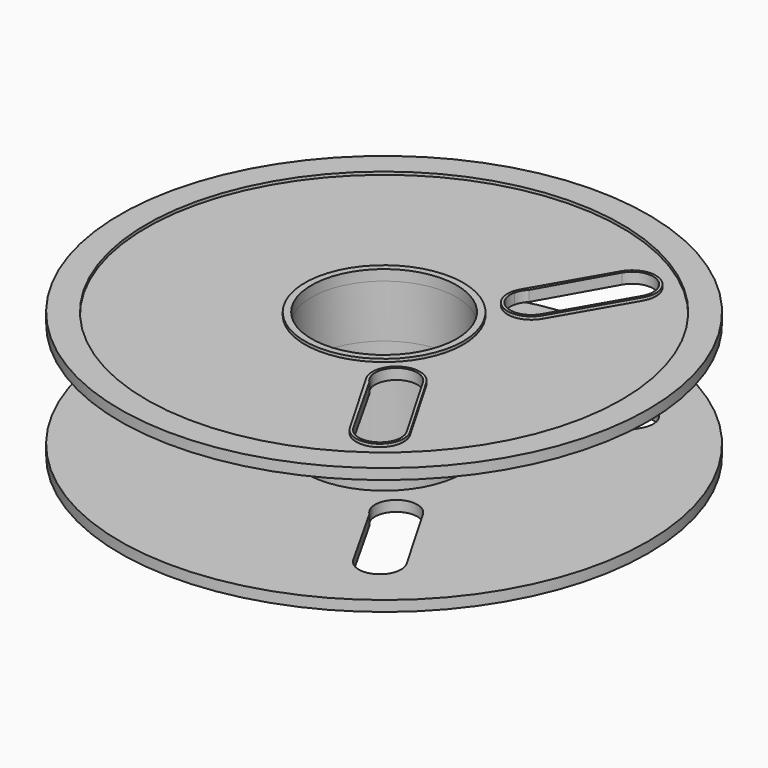
from build123d import *

# Parameters (mm, degrees)
F0_R     = 3
F0_R_2   = 2.75
F1_DEPTH = 0.4
F0_R_3   = 10
F0_R_4   = 9
F2_DEPTH = 0.29
F3_DEPTH = 2


with BuildPart() as f1:
    # F0 (on Top) → F1 (new body)
    with BuildSketch(Plane.XY):
        Circle(F0_R)
        Circle(F0_R_2, mode=Mode.SUBTRACT)
    extrude(amount=F1_DEPTH)


with BuildPart() as f1b:
    # F0 (on Top) → F1, piece 2 (new body)
    with BuildSketch(Plane.XY):
        with BuildLine():
            Line((5.3993566375, -5.5212812921), (3.7993566375, -2.75))
            ThreePointArc((3.7993566375, -2.75), (2.5699337741, -2.4205771366), (2.2405109107, -3.65))
            Line((2.2405109107, -3.65), (3.8405109107, -6.4212812921))
            ThreePointArc((3.8405109107, -6.4212812921), (5.0699337741, -6.7507041555), (5.3993566375, -5.5212812921))
        make_face()
        with BuildLine():
            ThreePointArc((2.2405109107, -3.3802775638), (2.7265815749, -2.4557255296), (3.7127540971, -2.8))
            Line((3.7127540971, -2.8), (5.3127540971, -5.5712812921))
            ThreePointArc((5.3127540971, -5.5712812921), (5.0164074709, -6.6661255968), (3.9230834357, -6.3642184447))
            Line((3.9230834357, -6.3642184447), (2.4623211329, -3.7736446133))
            ThreePointArc((2.4623211329, -3.7736446133), (2.3230834357, -3.5929371526), (2.2405109107, -3.3802775638))
        make_face(mode=Mode.SUBTRACT)
    extrude(amount=F1_DEPTH)


with BuildPart() as f1c:
    # F0 (on Top) → F1, piece 3 (new body)
    with BuildSketch(Plane.XY):
        with BuildLine():
            Line((3.7993566375, 2.75), (5.3993566375, 5.5212812921))
            ThreePointArc((5.3993566375, 5.5212812921), (5.0699337741, 6.7507041555), (3.8405109107, 6.4212812921))
            Line((3.8405109107, 6.4212812921), (2.2405109107, 3.65))
            ThreePointArc((2.2405109107, 3.65), (2.5699337741, 2.4205771366), (3.7993566375, 2.75))
        make_face()
        with BuildLine():
            ThreePointArc((2.2405109107, 3.3802775638), (2.3230834357, 3.5929371526), (2.4623211329, 3.7736446133))
            Line((2.4623211329, 3.7736446133), (3.9230834357, 6.3642184447))
            ThreePointArc((3.9230834357, 6.3642184447), (5.0164074709, 6.6661255968), (5.3127540971, 5.5712812921))
            Line((5.3127540971, 5.5712812921), (3.7127540971, 2.8))
            ThreePointArc((3.7127540971, 2.8), (2.7265815749, 2.4557255296), (2.2405109107, 3.3802775638))
        make_face(mode=Mode.SUBTRACT)
    extrude(amount=F1_DEPTH)


with BuildPart() as f1d:
    # F0 (on Top) → F1, piece 4 (new body)
    with BuildSketch(Plane.XY):
        Circle(F0_R_3)
        Circle(F0_R_4, mode=Mode.SUBTRACT)
    extrude(amount=F1_DEPTH)


with BuildPart() as f2:
    # F0 (on Top) → F2 (new body)
    with BuildSketch(Plane.XY):
        Circle(F0_R_4)
        with BuildLine():
            ThreePointArc((2.2405109107, -3.65), (2.5699337741, -2.4205771366), (3.7993566375, -2.75))
            Line((3.7993566375, -2.75), (5.3993566375, -5.5212812921))
            ThreePointArc((5.3993566375, -5.5212812921), (5.0699337741, -6.7507041555), (3.8405109107, -6.4212812921))
            Line((3.8405109107, -6.4212812921), (2.2405109107, -3.65))
        make_face(mode=Mode.SUBTRACT)
        Circle(F0_R, mode=Mode.SUBTRACT)
        with BuildLine():
            ThreePointArc((3.8405109107, 6.4212812921), (5.0699337741, 6.7507041555), (5.3993566375, 5.5212812921))
            Line((5.3993566375, 5.5212812921), (3.7993566375, 2.75))
            ThreePointArc((3.7993566375, 2.75), (2.5699337741, 2.4205771366), (2.2405109107, 3.65))
            Line((2.2405109107, 3.65), (3.8405109107, 6.4212812921))
        make_face(mode=Mode.SUBTRACT)
    extrude(amount=F2_DEPTH)


with BuildPart() as f3:
    # F0 (on Top) → F3 (new body)
    with BuildSketch(Plane.XY):
        Circle(F0_R)
        Circle(F0_R_2, mode=Mode.SUBTRACT)
    extrude(amount=-F3_DEPTH)



with BuildPart() as f3_1:
    add(f3.part)
    # F4: F1d, F2, F3, F1, F1c, F1b across face
    add(f1d.part.mirror(Plane(origin=(0, 0, -2), x_dir=(1, 0, 0), z_dir=(0, 0, -1))))
    add(f2.part.mirror(Plane(origin=(0, 0, -2), x_dir=(1, 0, 0), z_dir=(0, 0, -1))))
    add(f3.part.mirror(Plane(origin=(0, 0, -2), x_dir=(1, 0, 0), z_dir=(0, 0, -1))))
    add(f1.part.mirror(Plane(origin=(0, 0, -2), x_dir=(1, 0, 0), z_dir=(0, 0, -1))))
    add(f1c.part.mirror(Plane(origin=(0, 0, -2), x_dir=(1, 0, 0), z_dir=(0, 0, -1))))
    add(f1b.part.mirror(Plane(origin=(0, 0, -2), x_dir=(1, 0, 0), z_dir=(0, 0, -1))))


solid = Compound([f1.part, f1b.part, f1c.part, f1d.part, f2.part, f3_1.part])
